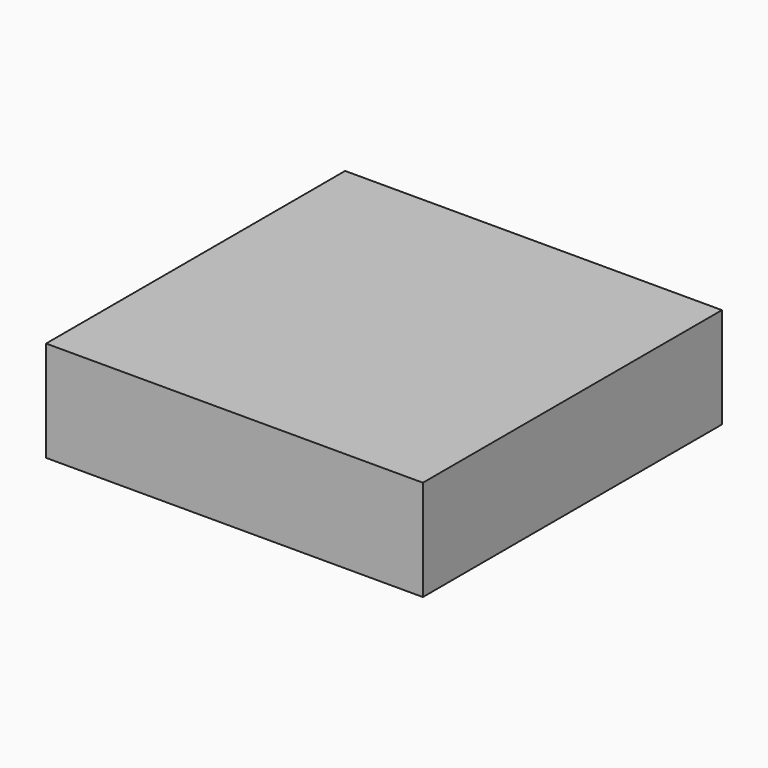
from build123d import *

# Parameters (mm, degrees)
F0_W     = 55
F0_H     = 62
F0_W_2   = 7.5
F1_DEPTH = 16.7
F2_T     = -2


with BuildPart() as f1:
    # F0 (on Top) → F1 (new body)
    with BuildSketch(Plane.XY):
        with Locations((27.5, 31)):
            Rectangle(F0_W, F0_H)
        with Locations((-3.75, 31)):
            Rectangle(F0_W_2, F0_H)
    extrude(amount=-F1_DEPTH)

    # F2
    f2_openings = [f1.faces().sort_by_distance(p)[0] for p in [
        (-7.5, 31, -8.35),
    ]]
    offset(amount=F2_T, openings=f2_openings)


solid = f1.part
